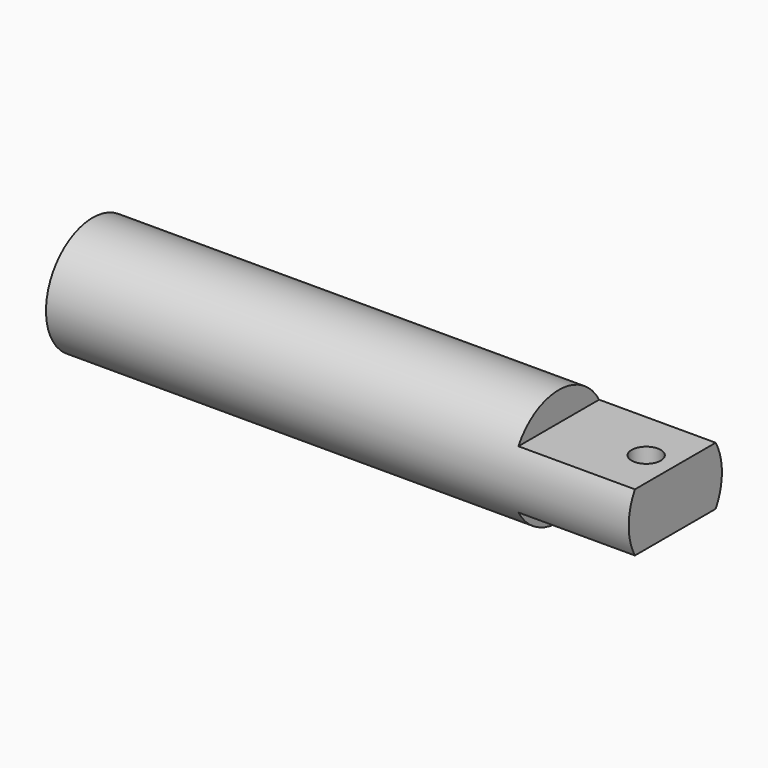
from build123d import *

# Parameters (mm, degrees)
F0_R     = 12.7
F1_DEPTH = 63.5
F3_DEPTH = 25.4
F4_R     = 3.175
F5_DEPTH = 19.051


with BuildPart() as f1:
    # F0 (on Right) → F1 (new body, symmetric)
    with BuildSketch(Plane.YZ):
        Circle(F0_R)
    extrude(amount=F1_DEPTH, both=True)

    # F2 (on face) → F3 (cut)
    with BuildSketch(Plane.YZ.offset(63.5)):
        with BuildLine():
            Line((10.998523, -6.35), (-10.998523, -6.35))
            ThreePointArc((-10.998523, -6.35), (0, -12.7), (10.998523, -6.35))
        make_face()
        with BuildLine():
            ThreePointArc((10.998523, 6.35), (0, 12.7), (-10.998523, 6.35))
            Line((-10.998523, 6.35), (10.998523, 6.35))
        make_face()
    extrude(amount=-F3_DEPTH, mode=Mode.SUBTRACT)

    # F4 (on face) → F5 (cut, through all)
    with BuildSketch(Plane.XY.offset(6.35)):
        with Locations((57.15, 0)):
            Circle(F4_R)
    extrude(amount=-F5_DEPTH, mode=Mode.SUBTRACT)


solid = f1.part
